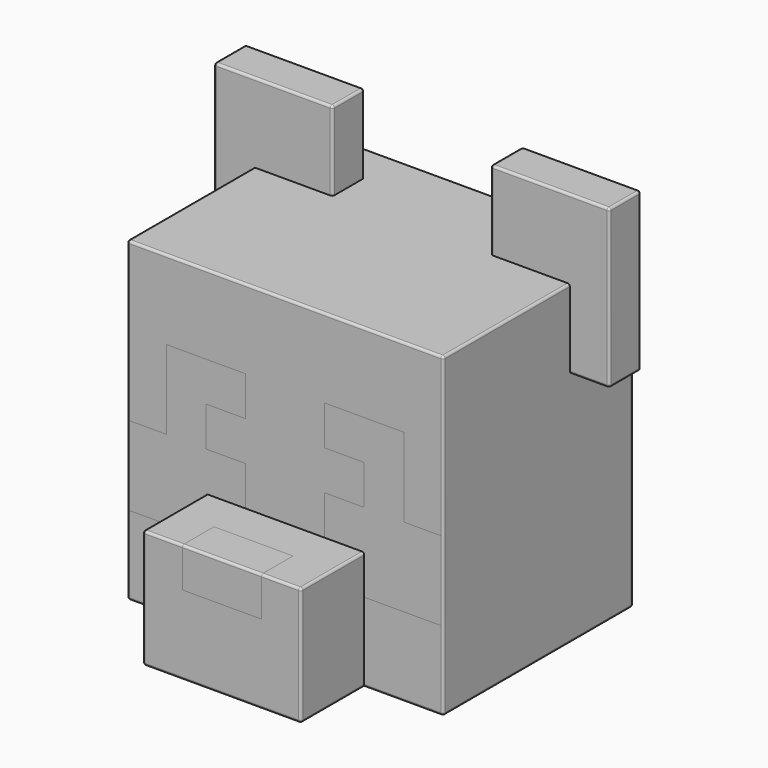
from build123d import *

# Parameters (mm, degrees)
F0_W      = 50.8
F0_H      = 50.8
F1_DEPTH  = 152.4
F2_DEPTH  = 50.8
F3_W      = 50.8
F3_H      = 25.4
F4_DEPTH  = 25.4
F5_DEPTH  = 25.4
F7_W      = 50.8
F7_H      = 50.8
F8_DEPTH  = 25.4
F9_R      = 1.524
F9_2_R    = 1.524
F9_3_R    = 1.524
F9_4_R    = 1.524
F12_DEPTH = 25.4
F13_DEPTH = 25.4


with BuildPart() as f1:
    # F0 (on Front) → F1 (new body)
    with BuildSketch(Plane.XZ):
        Polygon((25.4, 25.4), (25.4, 50.8), (76.2, 50.8), (76.2, 0), (101.6, 0), (101.6, 101.6), (-101.6, 101.6), (-101.6, 0), (-76.2, 0), (-76.2, 50.8), (-25.4, 50.8), (-25.4, 25.4), (-50.8, 25.4), (-50.8, 0), (-25.4, 0), (-25.4, -25.4), (25.4, -25.4), (25.4, 0), (50.8, 0), (50.8, 25.4), align=None)
        Polygon((-50.8, -25.4), (-25.4, -25.4), (-25.4, 0), (-50.8, 0), (-50.8, 25.4), (-25.4, 25.4), (-25.4, 50.8), (-76.2, 50.8), (-76.2, 0), (-101.6, 0), (-101.6, -50.8), (-50.8, -50.8), align=None)
        Polygon((76.2, 50.8), (25.4, 50.8), (25.4, 25.4), (50.8, 25.4), (50.8, 0), (25.4, 0), (25.4, -25.4), (50.8, -25.4), (50.8, -50.8), (101.6, -50.8), (101.6, 0), (76.2, 0), align=None)
        Polygon((-50.8, -25.4), (-25.4, -25.4), (-25.4, 0), (-50.8, 0), (-50.8, 25.4), (-25.4, 25.4), (-25.4, 50.8), (-76.2, 50.8), (-76.2, 0), (-101.6, 0), (-101.6, -50.8), (-50.8, -50.8), align=None)
        Polygon((76.2, 50.8), (25.4, 50.8), (25.4, 25.4), (50.8, 25.4), (50.8, 0), (25.4, 0), (25.4, -25.4), (50.8, -25.4), (50.8, -50.8), (101.6, -50.8), (101.6, 0), (76.2, 0), align=None)
        with Locations((-76.2, -76.2)):
            Rectangle(F0_W, F0_H)
        Polygon((50.8, -25.4), (25.4, -25.4), (-25.4, -25.4), (-50.8, -25.4), (-50.8, -50.8), (-50.8, -101.6), (50.8, -101.6), (50.8, -50.8), align=None)
        with Locations((76.2, -76.2)):
            Rectangle(F0_W, F0_H)
    extrude(amount=-F1_DEPTH)

    # F0 (on Front) → F2 (join)
    with BuildSketch(Plane.XZ):
        Polygon((50.8, -25.4), (25.4, -25.4), (-25.4, -25.4), (-50.8, -25.4), (-50.8, -50.8), (-50.8, -101.6), (50.8, -101.6), (50.8, -50.8), align=None)
    extrude(amount=F2_DEPTH)

    # F3 (on face) → F4 (cut)
    with BuildSketch(Plane.XZ.offset(50.8)):
        with Locations((0, -38.1)):
            Rectangle(F3_W, F3_H)
    extrude(amount=-F4_DEPTH, mode=Mode.SUBTRACT)


with BuildPart() as f5:
    # F5 (new): a face of the model
    f5_faces = [f1.part.faces().sort_by_distance(p)[0] for p in [
        (0, -25.4, -38.1),
    ]]
    extrude(f5_faces, amount=F5_DEPTH)

    # F9#2
    f9_2_edges = [f5.edges().sort_by_distance(p)[0] for p in [
        (0, -50.8, -25.4),
    ]]
    fillet(f9_2_edges, radius=F9_2_R)


with BuildPart() as f8:
    # F7 (on offset) → F8 (new body)
    with BuildSketch(Plane.XZ.offset(-101.6)):
        with Locations((76.2, 76.2)):
            Rectangle(F7_W, F7_H)
        Polygon((50.8, 152.4), (50.8, 101.6), (101.6, 101.6), (101.6, 50.8), (127, 50.8), (127, 152.4), align=None)
    extrude(amount=-F8_DEPTH)

    # F9#3
    f9_3_edges = [f8.edges().sort_by_distance(p)[0] for p in [
        (88.9, 101.6, 50.8),
        (127, 101.6, 101.6),
        (88.9, 101.6, 152.4),
        (50.8, 101.6, 101.6),
        (88.9, 127, 50.8),
        (127, 127, 101.6),
        (88.9, 127, 152.4),
        (50.8, 127, 101.6),
        (50.8, 114.3, 50.8),
        (127, 114.3, 50.8),
        (127, 114.3, 152.4),
        (50.8, 114.3, 152.4),
    ]]
    fillet(f9_3_edges, radius=F9_3_R)


with BuildPart() as f8b:
    # F7 (on offset) → F8, piece 2 (new body)
    with BuildSketch(Plane.XZ.offset(-101.6)):
        Polygon((-101.6, 50.8), (-50.8, 50.8), (-50.8, 101.6), (-50.8, 152.4), (-127, 152.4), (-127, 50.8), align=None)
    extrude(amount=-F8_DEPTH)

    # F9#4
    f9_4_edges = [f8b.edges().sort_by_distance(p)[0] for p in [
        (-50.8, 127, 101.6),
        (-88.9, 127, 152.4),
        (-127, 127, 101.6),
        (-88.9, 127, 50.8),
        (-88.9, 101.6, 50.8),
        (-50.8, 101.6, 101.6),
        (-88.9, 101.6, 152.4),
        (-127, 101.6, 101.6),
        (-50.8, 114.3, 50.8),
        (-127, 114.3, 50.8),
        (-50.8, 114.3, 152.4),
        (-127, 114.3, 152.4),
    ]]
    fillet(f9_4_edges, radius=F9_4_R)


with BuildPart() as f1_1:
    add(f1.part)

    # F9
    f9_edges = [f1_1.edges().sort_by_distance(p)[0] for p in [
        (-38.1, -50.8, -25.4),
        (38.1, -50.8, -25.4),
        (-101.6, 76.2, -101.6),
        (0, 152.4, -101.6),
        (101.6, 76.2, -101.6),
        (76.2, 0, -101.6),
        (50.8, -25.4, -101.6),
        (0, -50.8, -101.6),
        (-50.8, -25.4, -101.6),
        (-76.2, 0, -101.6),
        (0, 152.4, 101.6),
        (-101.6, 152.4, 0),
        (101.6, 152.4, 0),
        (-101.6, 76.2, 101.6),
        (101.6, 76.2, 101.6),
        (50.8, -50.8, -63.5),
        (50.8, -25.4, -25.4),
        (-50.8, -50.8, -63.5),
        (-50.8, -25.4, -25.4),
        (101.6, 0, 0),
        (0, 0, 101.6),
        (-101.6, 0, 0),
    ]]
    fillet(f9_edges, radius=F9_R)

    # F10: cut F8, F8b
    add(f8.part, mode=Mode.SUBTRACT)
    add(f8b.part, mode=Mode.SUBTRACT)

    # F11 (on Front) → F12 (cut)
    with BuildSketch(Plane.XZ):
        Polygon((-76.2, 50.8), (-76.2, 0), (-100.076, 0), (-100.076, -50.8), (-50.8, -50.8), (-50.8, -25.4), (-25.4, -25.4), (-25.4, 0), (-50.8, 0), (-50.8, 25.4), (-25.4, 25.4), (-25.4, 50.8), align=None)
        Polygon((100.076, -50.8), (100.076, 0), (76.2, 0), (76.2, 50.8), (25.4, 50.8), (25.4, 25.4), (50.8, 25.4), (50.8, 0), (25.4, 0), (25.4, -25.4), (50.8, -25.4), (50.8, -50.8), align=None)
    extrude(amount=-F12_DEPTH, mode=Mode.SUBTRACT)


with BuildPart() as f13:
    # F11 (on Front) → F13 (new body)
    with BuildSketch(Plane.XZ):
        Polygon((-76.2, 50.8), (-76.2, 0), (-100.076, 0), (-100.076, -50.8), (-50.8, -50.8), (-50.8, -25.4), (-25.4, -25.4), (-25.4, 0), (-50.8, 0), (-50.8, 25.4), (-25.4, 25.4), (-25.4, 50.8), align=None)
    extrude(amount=-F13_DEPTH)


with BuildPart() as f13b:
    # F11 (on Front) → F13, piece 2 (new body)
    with BuildSketch(Plane.XZ):
        Polygon((100.076, -50.8), (100.076, 0), (76.2, 0), (76.2, 50.8), (25.4, 50.8), (25.4, 25.4), (50.8, 25.4), (50.8, 0), (25.4, 0), (25.4, -25.4), (50.8, -25.4), (50.8, -50.8), align=None)
    extrude(amount=-F13_DEPTH)


solid = Compound([f5.part, f8.part, f8b.part, f1_1.part, f13.part, f13b.part])
